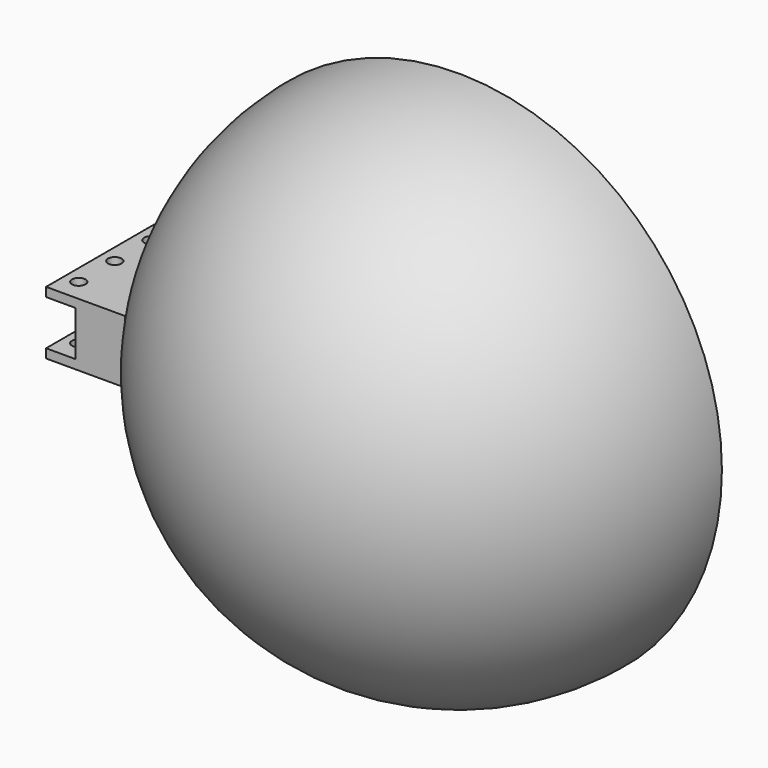
from build123d import *

# Parameters (mm, degrees)
REVOLUTION_ANGLE = 180
PAD_DEPTH        = 60
SKETCH002_R      = 3
HOLE_DEPTH       = 131.001


with BuildPart() as part:
    # Sketch → Revolution (revolve)
    with BuildSketch(Plane.XZ):
        with BuildLine():
            ThreePointArc((117, 0), (0, 117), (-117, 0))
            Line((-117, 0), (-113, 0))
            ThreePointArc((113, 0), (0, 113), (-113, 0))
            Line((113, 0), (117, 0))
        make_face()
    revolve(axis=Axis((0, 0, 0), (1, 0, 0)), revolution_arc=REVOLUTION_ANGLE)

    # Sketch001 → Pad (new body)
    with BuildSketch(Plane.XZ):
        Polygon((-100, 14), (-100, -14), (-135, -14), (-135, -10), (-122, -10), (-122, 10), (-135, 10), (-135, 14), align=None)
    extrude(amount=PAD_DEPTH)

    # Sketch002 (on Face3 of Pad) → Hole (cut, through all)
    with BuildSketch(Plane(origin=(0, 0, 14), x_dir=(-1, 0, 0), z_dir=(0, 0, 1))):
        with Locations((128.5, 10)):
            Circle(SKETCH002_R)
        with Locations((128.5, 30)):
            Circle(SKETCH002_R)
        with Locations((128.5, 50)):
            Circle(SKETCH002_R)
    extrude(amount=-HOLE_DEPTH, mode=Mode.SUBTRACT)


solid = part.part
